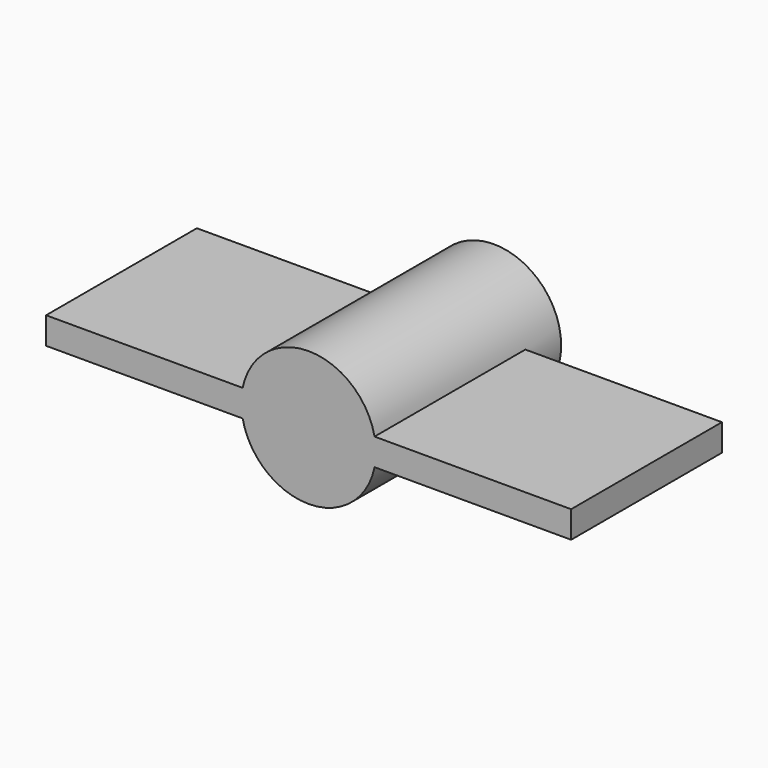
from build123d import *

# Parameters (mm, degrees)
SKETCH_W     = 39
SKETCH_H     = 14
PAD_DEPTH    = 2
SKETCH001_R  = 5
PAD001_DEPTH = 17.199
POCKET_DEPTH = 8


with BuildPart() as part:
    # Sketch → Pad (new body)
    with BuildSketch(Plane.XY):
        with Locations((19.5, 7)):
            Rectangle(SKETCH_W, SKETCH_H)
    extrude(amount=PAD_DEPTH)

    # Sketch001 (on Face1 of Pad) → Pad001 (join)
    with BuildSketch(Plane.XZ):
        with Locations((19.5, 1)):
            Circle(SKETCH001_R)
    extrude(amount=-PAD001_DEPTH)

    # Sketch002 (on Face14 of Pad001) → Pocket (cut)
    with BuildSketch(Plane(origin=(0, 17.199, 0), x_dir=(-1, 0, 0), z_dir=(0, 1, 0))):
        with BuildLine():
            ThreePointArc((-21.524846, 2.55), (-22.05, 1), (-21.524846, -0.55))
            Line((-17.475154, -0.55), (-21.524846, -0.55))
            ThreePointArc((-17.475154, -0.55), (-16.95, 1), (-17.475154, 2.55))
            Line((-21.524846, 2.55), (-17.475154, 2.55))
        make_face()
    extrude(amount=-POCKET_DEPTH, mode=Mode.SUBTRACT)


solid = part.part
